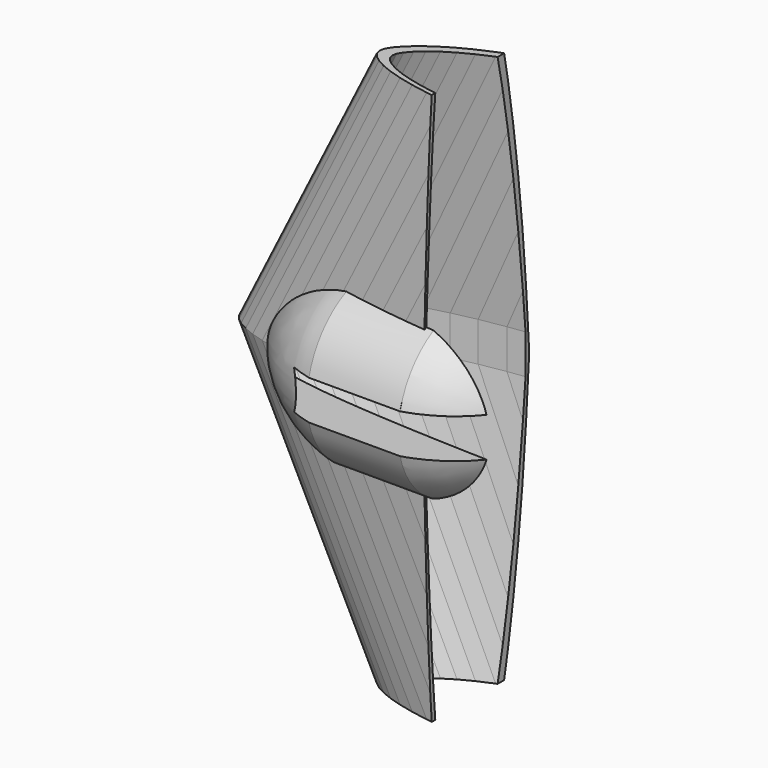
from build123d import *

# Parameters (mm, degrees)
PAD_DEPTH        = 5
REVOLUTION_ANGLE = 180
BOX_W            = 300
BOX_H            = 100
BOX_DEPTH        = 140


with BuildPart() as fusoliera:
    # Sketch → Pad (new body, symmetric)
    with BuildSketch(Plane.XY):
        with BuildLine():
            Line((290, 0), (289.7129, 0.0174))
            Line((289.7129, 0.0174), (288.8574, 0.0696))
            Line((288.8574, 0.0696), (287.4306, 0.1769))
            Line((287.4306, 0.1769), (285.4441, 0.3509))
            Line((285.4441, 0.3509), (282.9037, 0.6003))
            Line((282.9037, 0.6003), (279.8181, 0.9251))
            Line((279.8181, 0.9251), (276.1989, 1.3224))
            Line((276.1989, 1.3224), (272.0635, 1.7893))
            Line((272.0635, 1.7893), (267.4264, 2.3229))
            Line((267.4264, 2.3229), (262.3079, 2.9261))
            Line((262.3079, 2.9261), (256.7254, 3.6076))
            Line((256.7254, 3.6076), (250.6992, 4.3587))
            Line((250.6992, 4.3587), (244.2583, 5.1852))
            Line((244.2583, 5.1852), (237.4259, 6.0784))
            Line((237.4259, 6.0784), (230.2281, 7.0383))
            Line((230.2281, 7.0383), (230.2281, 40.028069))
            Line((230.2281, 40.028069), (201.90651, 39.515951))
            ThreePointArc((172.217343, 14.637652), (187.660006, 26.363067), (201.90651, 39.515951))
            Line((172.217343, 14.637652), (163.1743, 16.2081))
            Line((163.1743, 16.2081), (154.106, 17.371))
            Line((154.106, 17.371), (145, 18.4817))
            Line((145, 18.4817), (135.8969, 19.5199))
            Line((135.8969, 19.5199), (126.8257, 20.4682))
            Line((126.8257, 20.4682), (117.8299, 21.3034))
            Line((117.8299, 21.3034), (108.9414, 22.0023))
            Line((108.9414, 22.0023), (100.1921, 22.5446))
            Line((100.1921, 22.5446), (91.6226, 22.9129))
            Line((91.6226, 22.9129), (83.2619, 23.0898))
            Line((83.2619, 23.0898), (75.1448, 23.0608))
            Line((75.1448, 23.0608), (67.3061, 22.8201))
            Line((67.3061, 22.8201), (59.7719, 22.3561))
            Line((59.7719, 22.3561), (52.5741, 21.6717))
            Line((52.5741, 21.6717), (45.7417, 20.7698))
            Line((45.7417, 20.7698), (39.3008, 19.662))
            Line((39.3008, 19.662), (33.2746, 18.3628))
            Line((33.2746, 18.3628), (27.6921, 16.8896))
            Line((27.6921, 16.8896), (22.5736, 15.2714))
            Line((22.5736, 15.2714), (17.9365, 13.5314))
            Line((17.9365, 13.5314), (13.8011, 11.7015))
            Line((13.8011, 11.7015), (10.1819, 9.8165))
            Line((10.1819, 9.8165), (7.0963, 7.9112))
            Line((7.0963, 7.9112), (4.5559, 6.0378))
            Line((4.5559, 6.0378), (2.5694, 4.263))
            Line((2.5694, 4.263), (1.1426, 2.6535))
            Line((1.1426, 2.6535), (0.2871, 1.2383))
            Line((0.2871, 1.2383), (0, 0))
            Line((0, 0), (0.2871, -1.131))
            Line((0.2871, -1.131), (1.1426, -2.2243))
            Line((1.1426, -2.2243), (2.5694, -3.3176))
            Line((2.5694, -3.3176), (4.5559, -4.3964))
            Line((4.5559, -4.3964), (7.0963, -5.4201))
            Line((38.675534, -31.593528), (7.0963, -5.4201))
            Line((38.675534, -31.593528), (232.520951, -31.593528))
            Line((232.520951, -31.593528), (244.2583, -4.8227))
            Line((244.2583, -4.8227), (250.6992, -4.1267))
            Line((250.6992, -4.1267), (256.7254, -3.4626))
            Line((256.7254, -3.4626), (262.3079, -2.842))
            Line((262.3079, -2.842), (267.4264, -2.2765))
            Line((267.4264, -2.2765), (272.0635, -1.7661))
            Line((272.0635, -1.7661), (276.1989, -1.3137))
            Line((276.1989, -1.3137), (279.8181, -0.9222))
            Line((279.8181, -0.9222), (282.9037, -0.5974))
            Line((282.9037, -0.5974), (285.4441, -0.3509))
            Line((285.4441, -0.3509), (287.4306, -0.1769))
            Line((287.4306, -0.1769), (288.8574, -0.0696))
            Line((288.8574, -0.0696), (289.7129, -0.0174))
            Line((289.7129, -0.0174), (290, 0))
        make_face()
    extrude(amount=PAD_DEPTH, both=True)


with BuildPart() as loft_body:
    # Sketch001 → Loft section 0
    with BuildSketch(Plane.XY):
        Polygon((290, 0), (289.7129, 0.0174), (288.8574, 0.0696), (287.4306, 0.1769), (285.4441, 0.3509), (282.9037, 0.6003), (279.8181, 0.9251), (276.1989, 1.3224), (272.0635, 1.7893), (267.4264, 2.3229), (262.3079, 2.9261), (256.7254, 3.6076), (250.6992, 4.3587), (244.2583, 5.1852), (237.4259, 6.0784), (230.2281, 7.0383), (222.6939, 8.0591), (214.8552, 9.135), (206.7381, 10.2573), (198.3774, 11.4173), (189.8079, 12.6034), (181.0615, 13.8098), (172.1701, 15.0162), (163.1743, 16.2081), (154.106, 17.371), (145, 18.4817), (135.8969, 19.5199), (126.8257, 20.4682), (117.8299, 21.3034), (108.9414, 22.0023), (100.1921, 22.5446), (91.6226, 22.9129), (83.2619, 23.0898), (75.1448, 23.0608), (67.3061, 22.8201), (59.7719, 22.3561), (52.5741, 21.6717), (45.7417, 20.7698), (39.3008, 19.662), (33.2746, 18.3628), (27.6921, 16.8896), (22.5736, 15.2714), (17.9365, 13.5314), (13.8011, 11.7015), (10.1819, 9.8165), (7.0963, 7.9112), (4.5559, 6.0378), (2.5694, 4.263), (1.1426, 2.6535), (0.2871, 1.2383), (0, 0), (0.2871, -1.131), (1.1426, -2.2243), (2.5694, -3.3176), (4.5559, -4.3964), (7.0963, -5.4201), (10.1819, -6.3568), (13.8011, -7.1949), (17.9365, -7.9344), (22.5736, -8.5811), (27.6921, -9.1437), (33.2746, -9.6367), (39.3008, -10.063), (45.7417, -10.4371), (52.5741, -10.7619), (59.7719, -11.0461), (67.3061, -11.2926), (75.1448, -11.5043), (83.2619, -11.6812), (91.6226, -11.8175), (100.1921, -11.9161), (108.9414, -11.9683), (117.8299, -11.9712), (126.8257, -11.9161), (135.8969, -11.8001), (145, -11.6174), (154.106, -11.3651), (163.1743, -11.0374), (172.1701, -10.6401), (181.0615, -10.1732), (189.8079, -9.6396), (198.3774, -9.0451), (206.7381, -8.4013), (214.8552, -7.7169), (222.6939, -7.0064), (230.2281, -6.2756), (237.4259, -5.5448), (244.2583, -4.8227), (250.6992, -4.1267), (256.7254, -3.4626), (262.3079, -2.842), (267.4264, -2.2765), (272.0635, -1.7661), (276.1989, -1.3137), (279.8181, -0.9222), (282.9037, -0.5974), (285.4441, -0.3509), (287.4306, -0.1769), (288.8574, -0.0696), (289.7129, -0.0174), align=None)
    # Sketch002 → Loft section 1
    with BuildSketch(Plane(origin=(220, 0, 430), x_dir=(1, 0, 0), z_dir=(0, 0, 1))):
        Polygon((120, 0), (119.8812, 0.0072), (119.5272, 0.0288), (118.9368, 0.0732), (118.1148, 0.1452), (117.0636, 0.2484), (115.7868, 0.3828), (114.2892, 0.5472), (112.578, 0.7404), (110.6592, 0.9612), (108.5412, 1.2108), (106.2312, 1.4928), (103.7376, 1.8036), (101.0724, 2.1456), (98.2452, 2.5152), (95.2668, 2.9124), (92.1492, 3.3348), (88.9056, 3.78), (85.5468, 4.2444), (82.0872, 4.7244), (78.5412, 5.2152), (74.922, 5.7144), (71.2428, 6.2136), (67.5204, 6.7068), (63.768, 7.188), (60, 7.6476), (56.2332, 8.0772), (52.4796, 8.4696), (48.7572, 8.8152), (45.0792, 9.1044), (41.4588, 9.3288), (37.9128, 9.4812), (34.4532, 9.5544), (31.0944, 9.5424), (27.8508, 9.4428), (24.7332, 9.2508), (21.7548, 8.9676), (18.9276, 8.5944), (16.2624, 8.136), (13.7688, 7.5984), (11.4588, 6.9888), (9.3408, 6.3192), (7.422, 5.5992), (5.7108, 4.842), (4.2132, 4.062), (2.9364, 3.2736), (1.8852, 2.4984), (1.0632, 1.764), (0.4728, 1.098), (0.1188, 0.5124), (0, 0), (0.1188, -0.468), (0.4728, -0.9204), (1.0632, -1.3728), (1.8852, -1.8192), (2.9364, -2.2428), (4.2132, -2.6304), (5.7108, -2.9772), (7.422, -3.2832), (9.3408, -3.5508), (11.4588, -3.7836), (13.7688, -3.9876), (16.2624, -4.164), (18.9276, -4.3188), (21.7548, -4.4532), (24.7332, -4.5708), (27.8508, -4.6728), (31.0944, -4.7604), (34.4532, -4.8336), (37.9128, -4.89), (41.4588, -4.9308), (45.0792, -4.9524), (48.7572, -4.9536), (52.4796, -4.9308), (56.2332, -4.8828), (60, -4.8072), (63.768, -4.7028), (67.5204, -4.5672), (71.2428, -4.4028), (74.922, -4.2096), (78.5412, -3.9888), (82.0872, -3.7428), (85.5468, -3.4764), (88.9056, -3.1932), (92.1492, -2.8992), (95.2668, -2.5968), (98.2452, -2.2944), (101.0724, -1.9956), (103.7376, -1.7076), (106.2312, -1.4328), (108.5412, -1.176), (110.6592, -0.942), (112.578, -0.7308), (114.2892, -0.5436), (115.7868, -0.3816), (117.0636, -0.2472), (118.1148, -0.1452), (118.9368, -0.0732), (119.5272, -0.0288), (119.8812, -0.0072), align=None)
    loft()


with BuildPart() as loft_body_1:
    # Loft placement: moved
    add(loft_body.part.moved(Location((0, 0, 5))))


with BuildPart() as aereo:
    # Part__Mirroring: instance of Loft body
    add(loft_body_1.part.mirror(Plane(origin=(170, 5.5593, 0), x_dir=(0, 1, 0), z_dir=(0, 0, 1))))

    # Fusion001: union Loft body
    add(loft_body_1.part)

    # Fusion002: union fusoliera
    add(fusoliera.part)


with BuildPart() as obj1:
    # Sketch005 → Revolution (revolve)
    with BuildSketch(Plane.XZ):
        with BuildLine():
            ThreePointArc((28.770388, 21.401123), (13.459851, 13.7226), (3.209851, 0))
            Line((3.209851, 0), (72.71194, 0))
            ThreePointArc((72.71194, 0), (65.12875, 13.446124), (51.899199, 21.401123))
            Line((28.770388, 21.401123), (51.899199, 21.401123))
        make_face()
    revolve(axis=Axis((0, 0, 0), (1, 0, 0)), revolution_arc=REVOLUTION_ANGLE)


with BuildPart() as cubo:
    # Box → Box (new body)
    with BuildSketch(Plane(origin=(50, -50, -70), x_dir=(1, 0, 0), z_dir=(0, 0, 1))):
        with Locations((150, 50)):
            Rectangle(BOX_W, BOX_H)
    extrude(amount=BOX_DEPTH)


with BuildPart() as loft001:
    # Sketch003 → Loft001 section 0
    with BuildSketch(Plane(origin=(-5, 0, 0), x_dir=(1, 0, 0), z_dir=(0, 0, 1))):
        Polygon((300, 0), (299.703, 0.018), (298.818, 0.072), (297.342, 0.183), (295.287, 0.363), (292.659, 0.621), (289.467, 0.957), (285.723, 1.368), (281.445, 1.851), (276.648, 2.403), (271.353, 3.027), (265.578, 3.732), (259.344, 4.509), (252.681, 5.364), (245.613, 6.288), (238.167, 7.281), (230.373, 8.337), (222.264, 9.45), (213.867, 10.611), (205.218, 11.811), (196.353, 13.038), (187.305, 14.286), (178.107, 15.534), (168.801, 16.767), (159.42, 17.97), (150, 19.119), (140.583, 20.193), (131.199, 21.174), (121.893, 22.038), (112.698, 22.761), (103.647, 23.322), (94.782, 23.703), (86.133, 23.886), (77.736, 23.856), (69.627, 23.607), (61.833, 23.127), (54.387, 22.419), (47.319, 21.486), (40.656, 20.34), (34.422, 18.996), (28.647, 17.472), (23.352, 15.798), (18.555, 13.998), (14.277, 12.105), (10.533, 10.155), (7.341, 8.184), (4.713, 6.246), (2.658, 4.41), (1.182, 2.745), (0.297, 1.281), (0, 0), (0.297, -1.17), (1.182, -2.301), (2.658, -3.432), (4.713, -4.548), (7.341, -5.607), (10.533, -6.576), (14.277, -7.443), (18.555, -8.208), (23.352, -8.877), (28.647, -9.459), (34.422, -9.969), (40.656, -10.41), (47.319, -10.797), (54.387, -11.133), (61.833, -11.427), (69.627, -11.682), (77.736, -11.901), (86.133, -12.084), (94.782, -12.225), (103.647, -12.327), (112.698, -12.381), (121.893, -12.384), (131.199, -12.327), (140.583, -12.207), (150, -12.018), (159.42, -11.757), (168.801, -11.418), (178.107, -11.007), (187.305, -10.524), (196.353, -9.972), (205.218, -9.357), (213.867, -8.691), (222.264, -7.983), (230.373, -7.248), (238.167, -6.492), (245.613, -5.736), (252.681, -4.989), (259.344, -4.269), (265.578, -3.582), (271.353, -2.94), (276.648, -2.355), (281.445, -1.827), (285.723, -1.359), (289.467, -0.954), (292.659, -0.618), (295.287, -0.363), (297.342, -0.183), (298.818, -0.072), (299.703, -0.018), align=None)
    # Sketch004 → Loft001 section 1
    with BuildSketch(Plane(origin=(30, 0, 70), x_dir=(1, 0, 0), z_dir=(0, 0, 1))):
        Polygon((300, 0), (299.703, 0.018), (298.818, 0.072), (297.342, 0.183), (295.287, 0.363), (292.659, 0.621), (289.467, 0.957), (285.723, 1.368), (281.445, 1.851), (276.648, 2.403), (271.353, 3.027), (265.578, 3.732), (259.344, 4.509), (252.681, 5.364), (245.613, 6.288), (238.167, 7.281), (230.373, 8.337), (222.264, 9.45), (213.867, 10.611), (205.218, 11.811), (196.353, 13.038), (187.305, 14.286), (178.107, 15.534), (168.801, 16.767), (159.42, 17.97), (150, 19.119), (140.583, 20.193), (131.199, 21.174), (121.893, 22.038), (112.698, 22.761), (103.647, 23.322), (94.782, 23.703), (86.133, 23.886), (77.736, 23.856), (69.627, 23.607), (61.833, 23.127), (54.387, 22.419), (47.319, 21.486), (40.656, 20.34), (34.422, 18.996), (28.647, 17.472), (23.352, 15.798), (18.555, 13.998), (14.277, 12.105), (10.533, 10.155), (7.341, 8.184), (4.713, 6.246), (2.658, 4.41), (1.182, 2.745), (0.297, 1.281), (0, 0), (0.297, -1.17), (1.182, -2.301), (2.658, -3.432), (4.713, -4.548), (7.341, -5.607), (10.533, -6.576), (14.277, -7.443), (18.555, -8.208), (23.352, -8.877), (28.647, -9.459), (34.422, -9.969), (40.656, -10.41), (47.319, -10.797), (54.387, -11.133), (61.833, -11.427), (69.627, -11.682), (77.736, -11.901), (86.133, -12.084), (94.782, -12.225), (103.647, -12.327), (112.698, -12.381), (121.893, -12.384), (131.199, -12.327), (140.583, -12.207), (150, -12.018), (159.42, -11.757), (168.801, -11.418), (178.107, -11.007), (187.305, -10.524), (196.353, -9.972), (205.218, -9.357), (213.867, -8.691), (222.264, -7.983), (230.373, -7.248), (238.167, -6.492), (245.613, -5.736), (252.681, -4.989), (259.344, -4.269), (265.578, -3.582), (271.353, -2.94), (276.648, -2.355), (281.445, -1.827), (285.723, -1.359), (289.467, -0.954), (292.659, -0.618), (295.287, -0.363), (297.342, -0.183), (298.818, -0.072), (299.703, -0.018), align=None)
    loft()


with BuildPart() as obj2:
    # Part__Mirroring001: instance of Loft001
    add(loft001.part.mirror(Plane(origin=(160, 5.751, 0), x_dir=(0, 1, 0), z_dir=(0, 0, 1))))

    # Fusion: union Loft001
    add(loft001.part)

    # Cut: cut Cubo
    add(cubo.part, mode=Mode.SUBTRACT)

    # Fusion003: union obj1
    add(obj1.part)

    # Cut001: cut aereo
    add(aereo.part, mode=Mode.SUBTRACT)


solid = obj2.part
